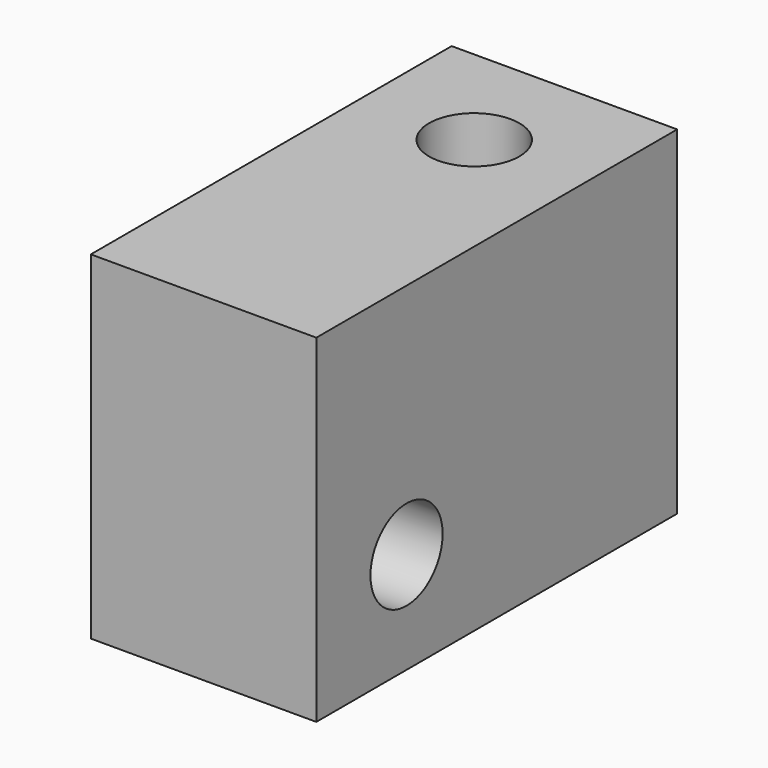
from build123d import *

# Parameters (mm, degrees)
F0_W     = 10
F0_H     = 20
F1_DEPTH = 15
F2_R     = 2
F3_DEPTH = 20
F4_R     = 2
F5_DEPTH = 20
F4_R_2   = 4
F6_DEPTH = 4


with BuildPart() as f1:
    # F0 (on Top) → F1 (new body)
    with BuildSketch(Plane.XY):
        with Locations((-0.84982, 4.175278)):
            Rectangle(F0_W, F0_H)
    extrude(amount=F1_DEPTH)

    # F2 (on face) → F3 (cut)
    with BuildSketch(Plane.XY.offset(15)):
        with Locations((-0.84982, 9.175278)):
            Circle(F2_R)
    extrude(amount=-F3_DEPTH, mode=Mode.SUBTRACT)

    # F4 (on face) → F5 (cut)
    with BuildSketch(Plane(origin=(-5.84982, 0, 0), x_dir=(0, -1, 0), z_dir=(-1, 0, 0))):
        with Locations((0.824722, 4.5)):
            Circle(F4_R)
    extrude(amount=-F5_DEPTH, mode=Mode.SUBTRACT)

    # F4 (on face) → F6 (cut)
    with BuildSketch(Plane(origin=(-5.84982, 0, 0), x_dir=(0, -1, 0), z_dir=(-1, 0, 0))):
        with Locations((0.824722, 4.5)):
            Circle(F4_R_2)
        with Locations((0.824722, 4.5)):
            Circle(F4_R, mode=Mode.SUBTRACT)
    extrude(amount=-F6_DEPTH, mode=Mode.SUBTRACT)


solid = f1.part
